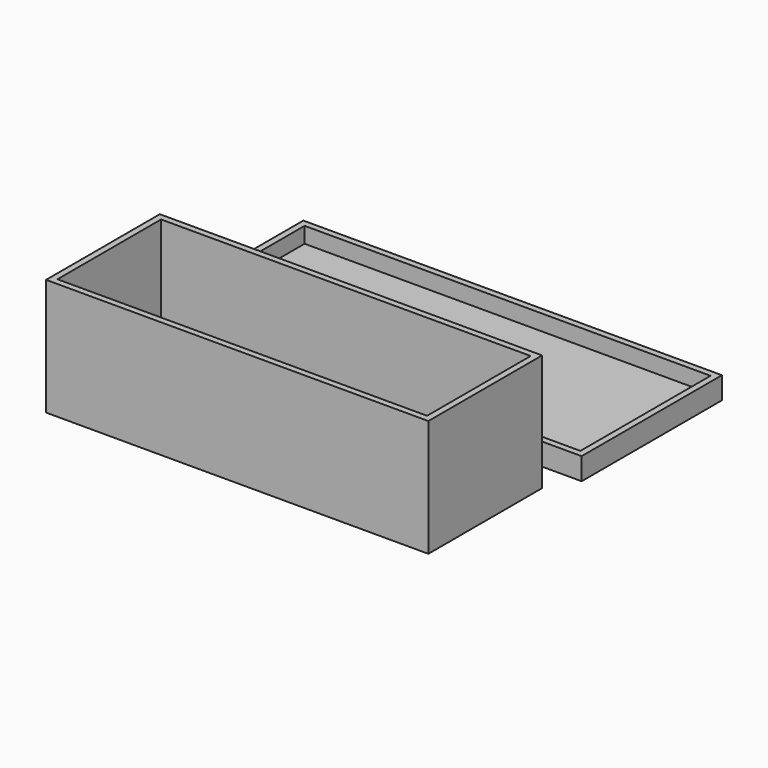
from build123d import *

# Parameters (mm, degrees)
F0_W     = 132.5
F0_H     = 55.5
F0_W_2   = 128.5
F0_H_2   = 51.5
F0_W_3   = 121
F0_H_3   = 45
F0_W_4   = 117
F0_H_4   = 41
F1_DEPTH = 2
F2_DEPTH = 5
F3_DEPTH = 35


with BuildPart() as f1:
    # F0 (on Top) → F1 (new body)
    with BuildSketch(Plane.XY):
        with Locations((3.483113, 32.086735)):
            Rectangle(F0_W, F0_H)
        with Locations((3.483113, 32.086735)):
            Rectangle(F0_W_2, F0_H_2, mode=Mode.SUBTRACT)
        with Locations((3.483113, 32.086735)):
            Rectangle(F0_W_2, F0_H_2)
        with Locations((3.901854, -27.158328)):
            Rectangle(F0_W_3, F0_H_3)
        with Locations((3.901854, -27.158328)):
            Rectangle(F0_W_4, F0_H_4, mode=Mode.SUBTRACT)
        with Locations((3.901854, -27.158328)):
            Rectangle(F0_W_4, F0_H_4)
    extrude(amount=-F1_DEPTH)

    # F0 (on Top) → F2 (join)
    with BuildSketch(Plane.XY):
        with Locations((3.483113, 32.086735)):
            Rectangle(F0_W, F0_H)
        with Locations((3.483113, 32.086735)):
            Rectangle(F0_W_2, F0_H_2, mode=Mode.SUBTRACT)
    extrude(amount=F2_DEPTH)

    # F0 (on Top) → F3 (join)
    with BuildSketch(Plane.XY):
        with Locations((3.901854, -27.158328)):
            Rectangle(F0_W_3, F0_H_3)
        with Locations((3.901854, -27.158328)):
            Rectangle(F0_W_4, F0_H_4, mode=Mode.SUBTRACT)
    extrude(amount=F3_DEPTH)


solid = f1.part
